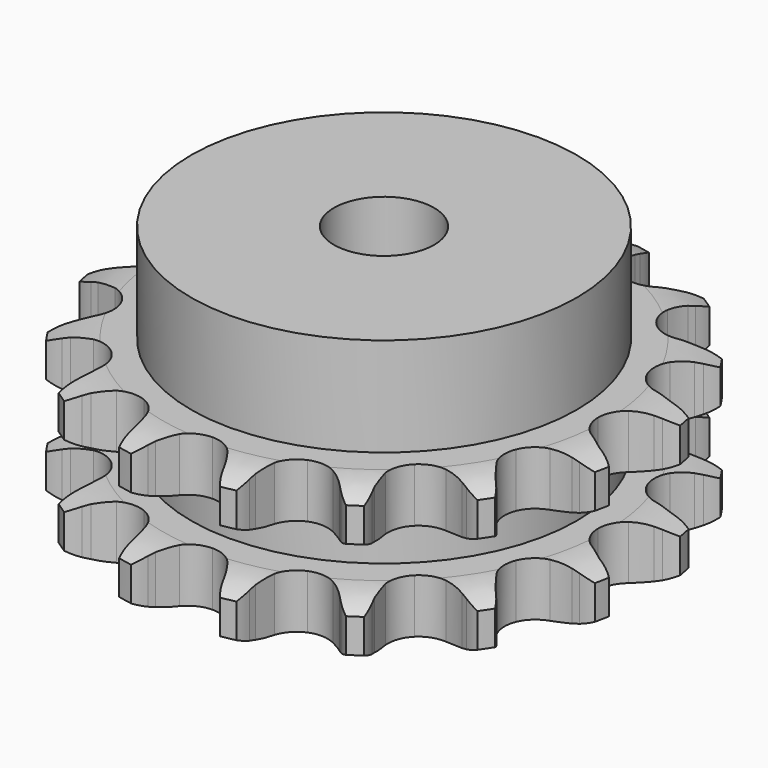
from build123d import *

# Parameters (mm, degrees)
PAD_DEPTH         = 30.3
SKETCH001_R       = 38.5
PAD001_DEPTH      = 50
SKETCH002_R       = 10
POCKET_DEPTH      = 0.001
POCKET_DEPTH_BACK = 50.001


with BuildPart() as part:
    # Sprocket → Pad (new body)
    with BuildSketch(Plane.XY):
        with BuildLine():
            ThreePointArc((-10.675506, 53.669391), (-8.778269, 51.876827), (-7.406396, 49.656297))
            Line((-7.406396, 49.656297), (-6.838144, 48.394825))
            ThreePointArc((-6.838144, 48.394825), (-5.906426, 46.633258), (-4.759849, 45.003356))
            ThreePointArc((-4.759849, 45.003356), (-2.63954, 43.320559), (0, 42.720264))
            ThreePointArc((0, 42.720264), (2.63954, 43.320559), (4.759849, 45.003356))
            ThreePointArc((4.759849, 45.003356), (5.906426, 46.633258), (6.838144, 48.394825))
            Line((6.838144, 48.394825), (7.406396, 49.656297))
            ThreePointArc((7.406396, 49.656297), (8.778269, 51.876827), (10.675506, 53.669391))
            ThreePointArc((10.675506, 53.669391), (11.74234, 51.287237), (12.160025, 48.710741))
            Line((12.160025, 48.710741), (12.202276, 47.327833))
            ThreePointArc((12.202276, 47.327833), (12.388949, 45.343804), (12.824511, 43.399195))
            ThreePointArc((12.824511, 43.399195), (14.139443, 41.033085), (16.348337, 39.468378))
            ThreePointArc((16.348337, 39.468378), (19.016677, 39.012869), (21.619566, 39.756164))
            Line((21.619566, 39.756164), (24.837519, 42.094144))
            ThreePointArc((24.837519, 42.094144), (25.330981, 42.579202), (25.845259, 43.042131))
            ThreePointArc((25.845259, 43.042131), (27.962465, 44.568641), (30.401268, 45.498713))
            ThreePointArc((30.401268, 45.498713), (30.475283, 42.88963), (29.875191, 40.349417))
            Line((29.875191, 40.349417), (29.385011, 39.055607))
            ThreePointArc((29.385011, 39.055607), (28.798219, 37.151167), (28.456457, 35.1879))
            ThreePointArc((28.456457, 35.1879), (28.765824, 32.498697), (30.207789, 30.207789))
            ThreePointArc((30.207789, 30.207789), (32.498697, 28.765824), (35.1879, 28.456457))
            Line((35.1879, 28.456457), (39.055607, 29.385011))
            ThreePointArc((39.055607, 29.385011), (39.69713, 29.644306), (40.349417, 29.875191))
            ThreePointArc((40.349417, 29.875191), (42.88963, 30.475283), (45.498713, 30.401268))
            ThreePointArc((45.498713, 30.401268), (44.568641, 27.962465), (43.042131, 25.845259))
            Line((43.042131, 25.845259), (42.094144, 24.837519))
            ThreePointArc((42.094144, 24.837519), (40.823221, 23.302601), (39.756164, 21.619566))
            ThreePointArc((39.756164, 21.619566), (39.012869, 19.016677), (39.468378, 16.348337))
            ThreePointArc((39.468378, 16.348337), (41.033085, 14.139443), (43.399195, 12.824511))
            Line((43.399195, 12.824511), (47.327833, 12.202276))
            ThreePointArc((47.327833, 12.202276), (48.019751, 12.196334), (48.710741, 12.160025))
            ThreePointArc((48.710741, 12.160025), (51.287237, 11.74234), (53.669391, 10.675506))
            ThreePointArc((53.669391, 10.675506), (51.876827, 8.778269), (49.656297, 7.406396))
            Line((49.656297, 7.406396), (48.394825, 6.838144))
            ThreePointArc((48.394825, 6.838144), (46.633258, 5.906426), (45.003356, 4.759849))
            ThreePointArc((45.003356, 4.759849), (43.320559, 2.63954), (42.720264, 0))
            ThreePointArc((42.720264, 0), (43.320559, -2.63954), (45.003356, -4.759849))
            Line((45.003356, -4.759849), (48.394825, -6.838144))
            ThreePointArc((48.394825, -6.838144), (49.0318, -7.10842), (49.656297, -7.406396))
            ThreePointArc((49.656297, -7.406396), (51.876827, -8.778269), (53.669391, -10.675506))
            ThreePointArc((53.669391, -10.675506), (51.287237, -11.74234), (48.710741, -12.160025))
            Line((48.710741, -12.160025), (47.327833, -12.202276))
            ThreePointArc((47.327833, -12.202276), (45.343804, -12.388949), (43.399195, -12.824511))
            ThreePointArc((43.399195, -12.824511), (41.033085, -14.139443), (39.468378, -16.348337))
            ThreePointArc((39.468378, -16.348337), (39.012869, -19.016677), (39.756164, -21.619566))
            Line((39.756164, -21.619566), (42.094144, -24.837519))
            ThreePointArc((42.094144, -24.837519), (42.579202, -25.330981), (43.042131, -25.845259))
            ThreePointArc((43.042131, -25.845259), (44.568641, -27.962465), (45.498713, -30.401268))
            ThreePointArc((45.498713, -30.401268), (42.88963, -30.475283), (40.349417, -29.875191))
            Line((40.349417, -29.875191), (39.055607, -29.385011))
            ThreePointArc((39.055607, -29.385011), (37.151167, -28.798219), (35.1879, -28.456457))
            ThreePointArc((35.1879, -28.456457), (32.498697, -28.765824), (30.207789, -30.207789))
            ThreePointArc((30.207789, -30.207789), (28.765824, -32.498697), (28.456457, -35.1879))
            Line((28.456457, -35.1879), (29.385011, -39.055607))
            ThreePointArc((29.385011, -39.055607), (29.644306, -39.69713), (29.875191, -40.349417))
            ThreePointArc((29.875191, -40.349417), (30.475283, -42.88963), (30.401268, -45.498713))
            ThreePointArc((30.401268, -45.498713), (27.962465, -44.568641), (25.845259, -43.042131))
            Line((25.845259, -43.042131), (24.837519, -42.094144))
            ThreePointArc((24.837519, -42.094144), (23.302601, -40.823221), (21.619566, -39.756164))
            ThreePointArc((21.619566, -39.756164), (19.016677, -39.012869), (16.348337, -39.468378))
            ThreePointArc((16.348337, -39.468378), (14.139443, -41.033085), (12.824511, -43.399195))
            Line((12.824511, -43.399195), (12.202276, -47.327833))
            ThreePointArc((12.202276, -47.327833), (12.196334, -48.019751), (12.160025, -48.710741))
            ThreePointArc((12.160025, -48.710741), (11.74234, -51.287237), (10.675506, -53.669391))
            ThreePointArc((10.675506, -53.669391), (8.778269, -51.876827), (7.406396, -49.656297))
            Line((7.406396, -49.656297), (6.838144, -48.394825))
            ThreePointArc((6.838144, -48.394825), (5.906426, -46.633258), (4.759849, -45.003356))
            ThreePointArc((4.759849, -45.003356), (2.63954, -43.320559), (0, -42.720264))
            ThreePointArc((0, -42.720264), (-2.63954, -43.320559), (-4.759849, -45.003356))
            Line((-4.759849, -45.003356), (-6.838144, -48.394825))
            ThreePointArc((-6.838144, -48.394825), (-7.10842, -49.0318), (-7.406396, -49.656297))
            ThreePointArc((-7.406396, -49.656297), (-8.778269, -51.876827), (-10.675506, -53.669391))
            ThreePointArc((-10.675506, -53.669391), (-11.74234, -51.287237), (-12.160025, -48.710741))
            Line((-12.160025, -48.710741), (-12.202276, -47.327833))
            ThreePointArc((-12.202276, -47.327833), (-12.388949, -45.343804), (-12.824511, -43.399195))
            ThreePointArc((-12.824511, -43.399195), (-14.139443, -41.033085), (-16.348337, -39.468378))
            ThreePointArc((-16.348337, -39.468378), (-19.016677, -39.012869), (-21.619566, -39.756164))
            Line((-21.619566, -39.756164), (-24.837519, -42.094144))
            ThreePointArc((-24.837519, -42.094144), (-25.330981, -42.579202), (-25.845259, -43.042131))
            ThreePointArc((-25.845259, -43.042131), (-27.962465, -44.568641), (-30.401268, -45.498713))
            ThreePointArc((-30.401268, -45.498713), (-30.475283, -42.88963), (-29.875191, -40.349417))
            Line((-29.875191, -40.349417), (-29.385011, -39.055607))
            ThreePointArc((-29.385011, -39.055607), (-28.798219, -37.151167), (-28.456457, -35.1879))
            ThreePointArc((-28.456457, -35.1879), (-28.765824, -32.498697), (-30.207789, -30.207789))
            ThreePointArc((-30.207789, -30.207789), (-32.498697, -28.765824), (-35.1879, -28.456457))
            Line((-35.1879, -28.456457), (-39.055607, -29.385011))
            ThreePointArc((-39.055607, -29.385011), (-39.69713, -29.644306), (-40.349417, -29.875191))
            ThreePointArc((-40.349417, -29.875191), (-42.88963, -30.475283), (-45.498713, -30.401268))
            ThreePointArc((-45.498713, -30.401268), (-44.568641, -27.962465), (-43.042131, -25.845259))
            Line((-43.042131, -25.845259), (-42.094144, -24.837519))
            ThreePointArc((-42.094144, -24.837519), (-40.823221, -23.302601), (-39.756164, -21.619566))
            ThreePointArc((-39.756164, -21.619566), (-39.012869, -19.016677), (-39.468378, -16.348337))
            ThreePointArc((-39.468378, -16.348337), (-41.033085, -14.139443), (-43.399195, -12.824511))
            Line((-43.399195, -12.824511), (-47.327833, -12.202276))
            ThreePointArc((-47.327833, -12.202276), (-48.019751, -12.196334), (-48.710741, -12.160025))
            ThreePointArc((-48.710741, -12.160025), (-51.287237, -11.74234), (-53.669391, -10.675506))
            ThreePointArc((-53.669391, -10.675506), (-51.876827, -8.778269), (-49.656297, -7.406396))
            Line((-49.656297, -7.406396), (-48.394825, -6.838144))
            ThreePointArc((-48.394825, -6.838144), (-46.633258, -5.906426), (-45.003356, -4.759849))
            ThreePointArc((-45.003356, -4.759849), (-43.320559, -2.63954), (-42.720264, 0))
            ThreePointArc((-42.720264, 0), (-43.320559, 2.63954), (-45.003356, 4.759849))
            Line((-45.003356, 4.759849), (-48.394825, 6.838144))
            ThreePointArc((-48.394825, 6.838144), (-49.0318, 7.10842), (-49.656297, 7.406396))
            ThreePointArc((-49.656297, 7.406396), (-51.876827, 8.778269), (-53.669391, 10.675506))
            ThreePointArc((-53.669391, 10.675506), (-51.287237, 11.74234), (-48.710741, 12.160025))
            Line((-48.710741, 12.160025), (-47.327833, 12.202276))
            ThreePointArc((-47.327833, 12.202276), (-45.343804, 12.388949), (-43.399195, 12.824511))
            ThreePointArc((-43.399195, 12.824511), (-41.033085, 14.139443), (-39.468378, 16.348337))
            ThreePointArc((-39.468378, 16.348337), (-39.012869, 19.016677), (-39.756164, 21.619566))
            Line((-39.756164, 21.619566), (-42.094144, 24.837519))
            ThreePointArc((-42.094144, 24.837519), (-42.579202, 25.330981), (-43.042131, 25.845259))
            ThreePointArc((-43.042131, 25.845259), (-44.568641, 27.962465), (-45.498713, 30.401268))
            ThreePointArc((-45.498713, 30.401268), (-42.88963, 30.475283), (-40.349417, 29.875191))
            Line((-40.349417, 29.875191), (-39.055607, 29.385011))
            ThreePointArc((-39.055607, 29.385011), (-37.151167, 28.798219), (-35.1879, 28.456457))
            ThreePointArc((-35.1879, 28.456457), (-32.498697, 28.765824), (-30.207789, 30.207789))
            ThreePointArc((-30.207789, 30.207789), (-28.765824, 32.498697), (-28.456457, 35.1879))
            Line((-28.456457, 35.1879), (-29.385011, 39.055607))
            ThreePointArc((-29.385011, 39.055607), (-29.644306, 39.69713), (-29.875191, 40.349417))
            ThreePointArc((-29.875191, 40.349417), (-30.475283, 42.88963), (-30.401268, 45.498713))
            ThreePointArc((-30.401268, 45.498713), (-27.962465, 44.568641), (-25.845259, 43.042131))
            Line((-25.845259, 43.042131), (-24.837519, 42.094144))
            ThreePointArc((-24.837519, 42.094144), (-23.302601, 40.823221), (-21.619566, 39.756164))
            ThreePointArc((-21.619566, 39.756164), (-19.016677, 39.012869), (-16.348337, 39.468378))
            ThreePointArc((-16.348337, 39.468378), (-14.139443, 41.033085), (-12.824511, 43.399195))
            Line((-12.824511, 43.399195), (-12.202276, 47.327833))
            ThreePointArc((-12.202276, 47.327833), (-12.196334, 48.019751), (-12.160025, 48.710741))
            ThreePointArc((-12.160025, 48.710741), (-11.74234, 51.287237), (-10.675506, 53.669391))
        make_face()
    extrude(amount=PAD_DEPTH)

    # Sketch → Groove (revolve, cut)
    with BuildSketch(Plane.XZ):
        with BuildLine():
            ThreePointArc((44.264719, 0), (48.623618, 0.506758), (52.75, 2))
            Line((52.75, 2), (52.75, 8.8))
            ThreePointArc((52.75, 8.8), (48.623618, 10.293242), (44.264719, 10.8))
            Line((38.5, 10.8), (44.264719, 10.8))
            Line((38.5, 19.5), (38.5, 10.8))
            Line((44.264719, 19.5), (38.5, 19.5))
            ThreePointArc((44.264719, 19.5), (48.623618, 20.006758), (52.75, 21.5))
            Line((52.75, 21.5), (52.75, 28.3))
            ThreePointArc((52.75, 28.3), (48.623618, 29.793242), (44.264719, 30.3))
            Line((44.264719, 30.3), (62.75, 30.3))
            Line((62.75, 30.3), (62.75, 0))
            Line((44.264719, 0), (62.75, 0))
        make_face()
    revolve(axis=Axis((0, 0, 0), (0, 0, 1)), mode=Mode.SUBTRACT)

    # Sketch001 → Pad001 (join)
    with BuildSketch(Plane.XY):
        Circle(SKETCH001_R)
    extrude(amount=PAD001_DEPTH)

    # Sketch002 → Pocket (cut, two sides)
    with BuildSketch(Plane.XY) as pocket_sk:
        Circle(SKETCH002_R)
    extrude(amount=-POCKET_DEPTH, mode=Mode.SUBTRACT)
    extrude(pocket_sk.sketch, amount=POCKET_DEPTH_BACK, mode=Mode.SUBTRACT)


solid = part.part
